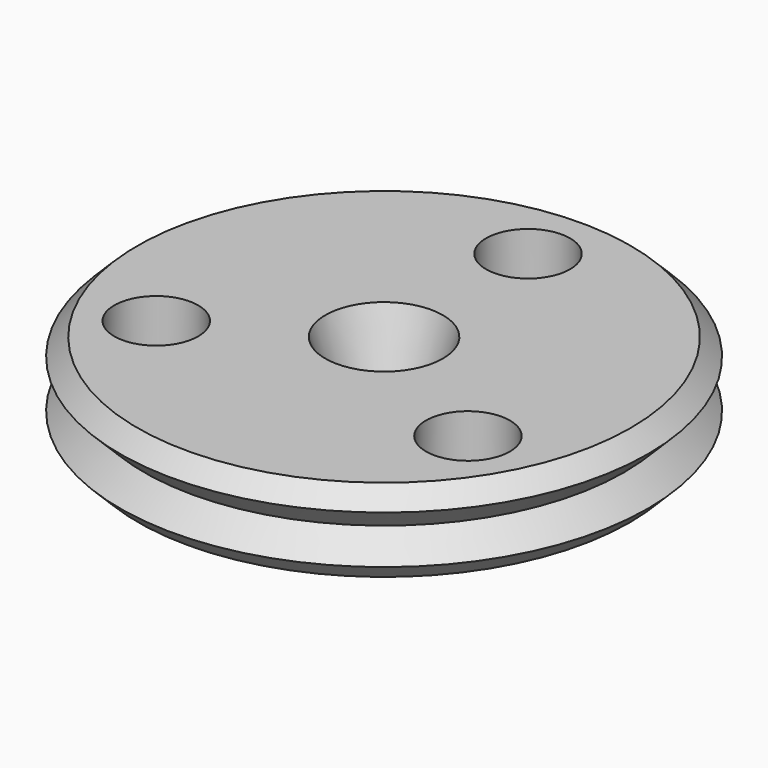
from build123d import *

# Parameters (mm, degrees)
SKETCH019_W    = 10
SKETCH019_H    = 2.7812096768
SKETCH005_W    = 10
SKETCH005_H    = 2.2955317108
CYLINDER_R     = 1.4
CYLINDER_DEPTH = 10
ARRAY001_COUNT = 3
SKETCH018_W    = 3.15
SKETCH018_H    = 2.3
SKETCH002_W    = 5
SKETCH002_H    = 6.8
ARRAY_Z_COUNT  = 6
ARRAY_Z_PITCH  = 1.6


with BuildPart() as obj1:
    # Sketch019 → Revolution008 (revolve)
    with BuildSketch(Plane.XZ):
        with Locations((5, 3.1861365492)):
            Rectangle(SKETCH019_W, SKETCH019_H)
    revolve(axis=Axis((0, 0, 0), (0, 0, 1)))


with BuildPart() as clone_of_lowerdomain001:
    # Sketch005 → Revolution004 (revolve)
    with BuildSketch(Plane.XZ):
        with Locations((5, 0.6477658554)):
            Rectangle(SKETCH005_W, SKETCH005_H)
    revolve(axis=Axis((0, 0, 0), (0, 0, 1)))


with BuildPart() as boltholes:
    # Cylinder → Cylinder (new body)
    with BuildSketch(Plane(origin=(0, 6, -1), x_dir=(1, 0, 0), z_dir=(0, 0, 1))):
        Circle(CYLINDER_R)
    extrude(amount=CYLINDER_DEPTH)

    # Array001: BoltHoles ×3 about axis
    array001_axis = Axis((0, 0, 0), (0, 0, 1))


with BuildPart() as boltholes_1:
    add(boltholes.part)
    for i in range(1, ARRAY001_COUNT):
        add(boltholes.part.rotate(array001_axis, i * 360 / ARRAY001_COUNT))


with BuildPart() as obj2:
    # Sketch018 → Revolution007 (revolve)
    with BuildSketch(Plane.XZ):
        with Locations((1.575, 5.7267413876)):
            Rectangle(SKETCH018_W, SKETCH018_H)
    revolve(axis=Axis((0, 0, 0), (0, 0, 1)))


with BuildPart() as obj3:
    # Sketch007 → Revolution006 (revolve)
    with BuildSketch(Plane.XZ):
        with BuildLine():
            ThreePointArc((1.5, 1.7955317108), (0.867020761, 2.4322916436), (0, 2.6655317108))
            Line((0, 2.6655317108), (0, 0.7955317108))
            Line((0, 0.7955317108), (1.5, 0.7955317108))
            Line((1.5, 1.7955317108), (1.5, 0.7955317108))
        make_face()
    revolve(axis=Axis((0, 0, 0), (0, 0, 1)))


with BuildPart() as obj4:
    # Sketch002 → Revolution002 (revolve)
    with BuildSketch(Plane.XZ):
        with Locations((7.5, 3.8)):
            Rectangle(SKETCH002_W, SKETCH002_H)
    revolve(axis=Axis((0, 0, 0), (0, 0, 1)))


with BuildPart() as innergroovetool:
    # Sketch001 → Revolution001 (revolve)
    with BuildSketch(Plane.XZ):
        Polygon((4, 8), (4, 6.4), (8, 6.4), (8.8, 7.2), (8, 8), align=None)
    revolve(axis=Axis((0, 0, 0), (0, 0, 1)))

    # Array Z: InnerGrooveTool ×6


with BuildPart() as innergroovetool_1:
    add(innergroovetool.part)
    with Locations(*[(0, 0, -i * ARRAY_Z_PITCH) for i in range(1, ARRAY_Z_COUNT)]):
        add(innergroovetool.part)

    # Common: intersect obj4
    add(obj4.part, mode=Mode.INTERSECT)


with BuildPart() as refine_middlecommon:
    # Sketch → Revolution (revolve)
    with BuildSketch(Plane.XZ):
        Polygon((1.2, 0.4), (8, 0.4), (8, 7.2), (2.8, 7.2), (1.2, 2.2), align=None)
    revolve(axis=Axis((0, 0, 0), (0, 0, 1)))

    # Fusion001: union InnerGrooveTool
    add(innergroovetool_1.part)

    # Cut: cut obj3
    add(obj3.part, mode=Mode.SUBTRACT)

    # Cut003: cut obj2
    add(obj2.part, mode=Mode.SUBTRACT)

    # Cut001: cut BoltHoles
    add(boltholes_1.part, mode=Mode.SUBTRACT)

    # Cut002: cut Clone of LowerDomain001
    add(clone_of_lowerdomain001.part, mode=Mode.SUBTRACT)

    # Common002: intersect obj1
    add(obj1.part, mode=Mode.INTERSECT)


solid = refine_middlecommon.part
